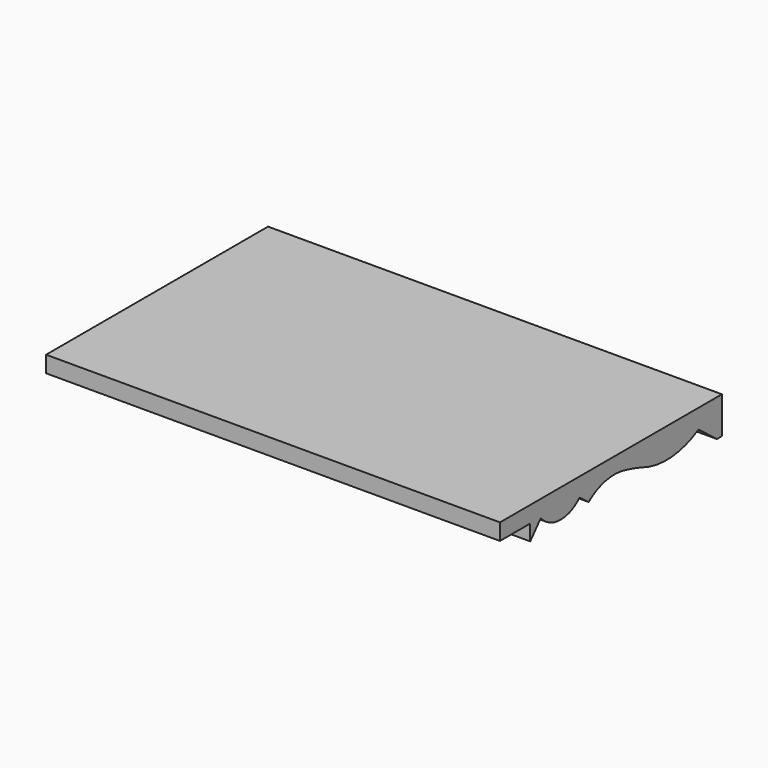
from build123d import *

# Parameters (mm, degrees)
F1_DEPTH = 114.3
F2_DEPTH = 114.3


with BuildPart() as f1:
    # F0 (on Right) → F1 (new body)
    with BuildSketch(Plane.YZ):
        with BuildLine():
            ThreePointArc((15.3397259396, 4.9735903311), (33.2535851209, 2.1483766452), (50.5945171187, 7.4568849653))
            Line((50.5945171187, 7.4568849653), (62.121764605, -1.4823092679))
            Line((62.121764605, -1.4823092679), (65.296764605, -1.4823092679))
            Line((65.296764605, -1.4823092679), (65.296764605, 17.0836517627))
            Line((65.296764605, 17.0836517627), (-74.4234208748, 17.0836517627))
            Line((-74.4234208748, 17.0836517627), (-74.4234208748, 8.8286517627))
            Line((-74.4234208748, 8.8286517627), (-55.3734208748, 8.8286517627))
            Line((-55.3734208748, 8.8286517627), (-55.3734208748, 0.8911517627))
            Line((-55.3734208748, 0.8911517627), (-49.1014425221, 8.0960725076))
            ThreePointArc((-49.1014425221, 8.0960725076), (-48.7232814382, 8.2705023504), (-48.3417610399, 8.1035479821))
            ThreePointArc((-48.3417610399, 8.1035479821), (-36.4490241706, 2.7123313027), (-24.3859868745, 7.7108849653))
            Line((-24.3859868745, 7.7108849653), (-18.6202428219, 3.4182849653))
            ThreePointArc((-18.6202428219, 3.4182849653), (-7.7779010166, 8.4768928848), (4.1840897409, 8.2388445204))
            ThreePointArc((4.1840897409, 8.2388445204), (9.8069500348, 6.7601026388), (15.3397259396, 4.9735903311))
        make_face()
    extrude(amount=F1_DEPTH)

    # F2 (add): a face of the model
    f2_faces = [f1.faces().sort_by_distance(p)[0] for p in [
        (0, 0.4923148954, 10.8715185192),
    ]]
    extrude(f2_faces, amount=F2_DEPTH)


solid = f1.part
